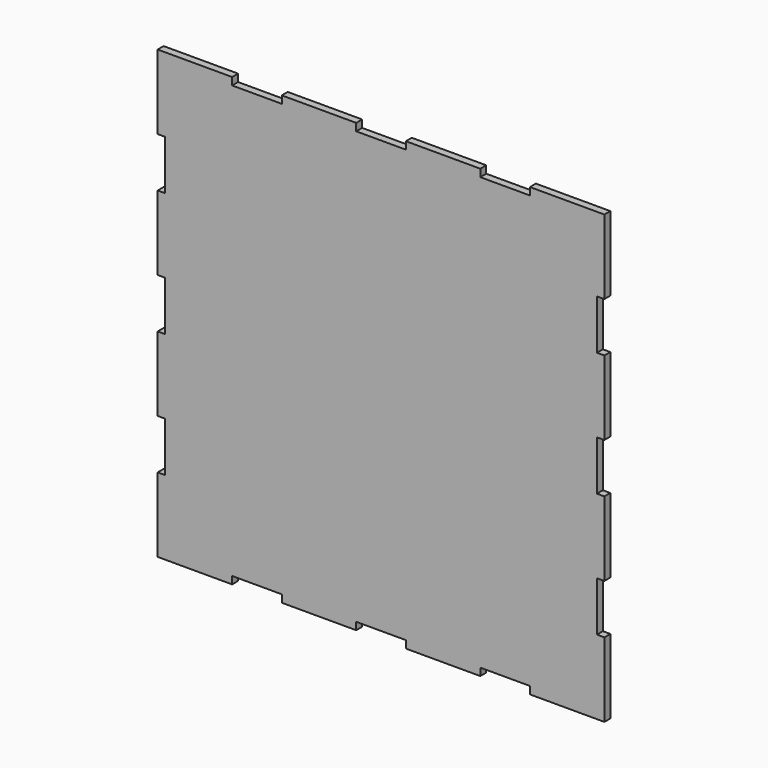
from build123d import *

# Parameters (mm, degrees)
F1_DEPTH = 3


with BuildPart() as f1:
    # F0 (on Front) → F1 (new body)
    with BuildSketch(Plane.XZ):
        Polygon((60, -90), (90, -90), (90, -60), (87, -60), (87, -40), (90, -40), (90, -10), (87, -10), (87, 10), (90, 10), (90, 40), (87, 40), (87, 60), (90, 60), (90, 90), (60, 90), (60, 87), (40, 87), (40, 90), (10, 90), (10, 87), (-10, 87), (-10, 90), (-40, 90), (-40, 87), (-60, 87), (-60, 90), (-90, 90), (-90, 60), (-87, 60), (-87, 40), (-90, 40), (-90, 10), (-87, 10), (-87, -10), (-90, -10), (-90, -40), (-87, -40), (-87, -60), (-90, -60), (-90, -90), (-60, -90), (-60, -87), (-40, -87), (-40, -90), (-10, -90), (-10, -87), (10, -87), (10, -90), (40, -90), (40, -87), (60, -87), align=None)
    extrude(amount=F1_DEPTH)


solid = f1.part
